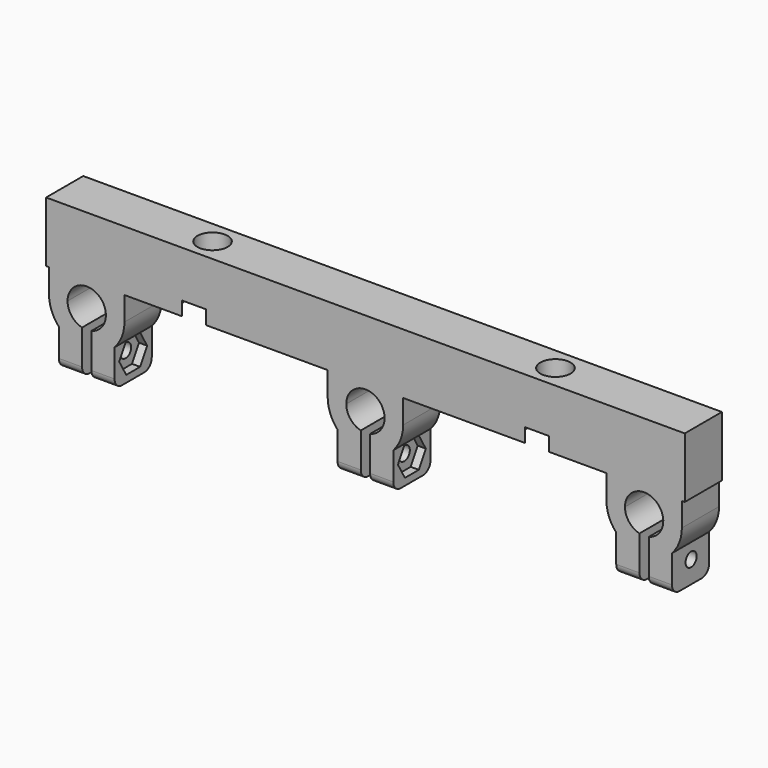
from build123d import *

# Parameters (mm, degrees)
F0_W      = 137.5
F0_H      = 10
F1_DEPTH  = 9
F3_DEPTH  = 10
F5_DEPTH  = 1.75
F7_DEPTH  = 1.75
F9_DEPTH  = 1.75
F10_R     = 1.5
F11_DEPTH = 134.751
F12_R     = 3.25
F13_DEPTH = 31.6046517502
F15_DEPTH = 134.751
F16_R     = 5.625
F16_R_2   = 3.25
F17_DEPTH = 3


with BuildPart() as f1:
    # F0 (on Top) → F1 (new body)
    with BuildSketch(Plane.XY):
        Rectangle(F0_W, F0_H)
    extrude(amount=F1_DEPTH)

    # F2 (on face) → F3 (join, through all)
    with BuildSketch(Plane(origin=(0, 5, 0), x_dir=(-1, 0, 0), z_dir=(0, 1, 0))):
        with BuildLine():
            Line((-61, -22.6036517502), (-61, -17.1882267114))
            ThreePointArc((-61, -17.1882267114), (-63.7309525503, -16.342729426), (-66, -14.6036517502))
            Line((-66, -14.6036517502), (-66, -22.6036517502))
            Line((-66, -22.6036517502), (-61, -22.6036517502))
        make_face()
        with BuildLine():
            Line((-54, -22.6036517502), (-54, -14.6036517502))
            ThreePointArc((-54, -14.6036517502), (-56.2690474497, -16.342729426), (-59, -17.1882267114))
            Line((-59, -17.1882267114), (-59, -22.6036517502))
            Line((-59, -22.6036517502), (-54, -22.6036517502))
        make_face()
        with BuildLine():
            Line((-1, -22.6036517502), (-1, -17.1882267114))
            ThreePointArc((-1, -17.1882267114), (-3.7309525503, -16.342729426), (-6, -14.6036517502))
            Line((-6, -14.6036517502), (-6, -22.6036517502))
            Line((-6, -22.6036517502), (-1, -22.6036517502))
        make_face()
        with BuildLine():
            ThreePointArc((6, -14.6036517502), (3.7309525503, -16.342729426), (1, -17.1882267114))
            Line((1, -17.1882267114), (1, -22.6036517502))
            Line((1, -22.6036517502), (6, -22.6036517502))
            Line((6, -22.6036517502), (6, -14.6036517502))
        make_face()
        with BuildLine():
            ThreePointArc((59, -17.1882267114), (56.2690474497, -16.342729426), (54, -14.6036517502))
            Line((54, -14.6036517502), (54, -22.6036517502))
            Line((54, -22.6036517502), (59, -22.6036517502))
            Line((59, -22.6036517502), (59, -17.1882267114))
        make_face()
        with BuildLine():
            ThreePointArc((66, -14.6036517502), (63.7309525503, -16.342729426), (61, -17.1882267114))
            Line((61, -17.1882267114), (61, -22.6036517502))
            Line((61, -22.6036517502), (66, -22.6036517502))
            Line((66, -22.6036517502), (66, -14.6036517502))
        make_face()
        with BuildLine():
            ThreePointArc((-1, -13.1269526484), (-2.5387620014, -5.8737982991), (4.125, -9.125))
            ThreePointArc((4.125, -9.125), (3.2512017009, -11.6637620014), (1, -13.1269526484))
            Line((1, -13.1269526484), (1, -17.1882267114))
            ThreePointArc((1, -17.1882267114), (3.7309525503, -16.342729426), (6, -14.6036517502))
            ThreePointArc((6, -14.6036517502), (7.5751443881, -12.0631648184), (8.125, -9.125))
            Line((8.125, -9.125), (8.125, -4))
            Line((8.125, -4), (51.875, -4))
            Line((51.875, -4), (51.875, -9.125))
            ThreePointArc((51.875, -9.125), (52.4248556119, -12.0631648184), (54, -14.6036517502))
            ThreePointArc((54, -14.6036517502), (56.2690474497, -16.342729426), (59, -17.1882267114))
            Line((59, -17.1882267114), (59, -13.1269526484))
            ThreePointArc((59, -13.1269526484), (57.4612379986, -5.8737982991), (64.125, -9.125))
            ThreePointArc((64.125, -9.125), (63.2512017009, -11.6637620014), (61, -13.1269526484))
            Line((61, -13.1269526484), (61, -17.1882267114))
            ThreePointArc((61, -17.1882267114), (63.7309525503, -16.342729426), (66, -14.6036517502))
            ThreePointArc((66, -14.6036517502), (67.5751443881, -12.0631648184), (68.125, -9.125))
            Line((68.125, -9.125), (68.125, -4))
            Line((68.125, -4), (68.75, -4))
            Line((68.75, -4), (68.75, 0))
            Line((68.75, 0), (-68.75, 0))
            Line((-68.75, 0), (-68.75, -4))
            Line((-68.75, -4), (-68.125, -4))
            Line((-68.125, -4), (-68.125, -9.125))
            ThreePointArc((-68.125, -9.125), (-67.5751443881, -12.0631648184), (-66, -14.6036517502))
            ThreePointArc((-66, -14.6036517502), (-63.7309525503, -16.342729426), (-61, -17.1882267114))
            Line((-61, -17.1882267114), (-61, -13.1269526484))
            ThreePointArc((-61, -13.1269526484), (-62.5387620014, -5.8737982991), (-55.875, -9.125))
            ThreePointArc((-55.875, -9.125), (-56.7487982991, -11.6637620014), (-59, -13.1269526484))
            Line((-59, -13.1269526484), (-59, -17.1882267114))
            ThreePointArc((-59, -17.1882267114), (-56.2690474497, -16.342729426), (-54, -14.6036517502))
            ThreePointArc((-54, -14.6036517502), (-52.4248556119, -12.0631648184), (-51.875, -9.125))
            Line((-51.875, -9.125), (-51.875, -4))
            Line((-51.875, -4), (-8.125, -4))
            Line((-8.125, -4), (-8.125, -9.125))
            ThreePointArc((-8.125, -9.125), (-7.5751443881, -12.0631648184), (-6, -14.6036517502))
            ThreePointArc((-6, -14.6036517502), (-3.7309525503, -16.342729426), (-1, -17.1882267114))
            Line((-1, -17.1882267114), (-1, -13.1269526484))
        make_face()
    extrude(amount=-F3_DEPTH)

    # F4 (on face) → F5 (cut)
    with BuildSketch(Plane(origin=(54, 0, 0), x_dir=(0, -1, 0), z_dir=(-1, 0, 0))):
        Polygon((3.7527767497, -17.8536517502), (1.8763883749, -14.6036517502), (-1.8763883749, -14.6036517502), (-3.7527767497, -17.8536517502), (-1.8763883749, -21.1036517502), (1.8763883749, -21.1036517502), align=None)
    extrude(amount=-F5_DEPTH, mode=Mode.SUBTRACT)

    # F6 (on face) → F7 (cut)
    with BuildSketch(Plane.YZ.offset(6)):
        Polygon((3.7527767497, -17.8536517502), (1.8763883749, -14.6036517502), (-1.8763883749, -14.6036517502), (-3.7527767497, -17.8536517502), (-1.8763883749, -21.1036517502), (1.8763883749, -21.1036517502), align=None)
    extrude(amount=-F7_DEPTH, mode=Mode.SUBTRACT)

    # F8 (on face) → F9 (cut)
    with BuildSketch(Plane.YZ.offset(-54)):
        Polygon((1.8763883749, -14.6036517502), (-1.8763883749, -14.6036517502), (-3.7527767497, -17.8536517502), (-1.8763883749, -21.1036517502), (1.8763883749, -21.1036517502), (3.7527767497, -17.8536517502), align=None)
    extrude(amount=-F9_DEPTH, mode=Mode.SUBTRACT)

    # F10 (on face) → F11 (cut, through all)
    with BuildSketch(Plane.YZ.offset(66)):
        with Locations((0.1443375673, -17.8536517502)):
            Circle(F10_R)
    extrude(amount=-F11_DEPTH, mode=Mode.SUBTRACT)

    # F12 (on face) → F13 (cut, through all)
    with BuildSketch(Plane.XY.offset(9)):
        with Locations((36.913, 0)):
            Circle(F12_R)
        with Locations((-36.913, 0)):
            Circle(F12_R)
    extrude(amount=-F13_DEPTH, mode=Mode.SUBTRACT)

    # F14 (on face) → F15 (cut, through all)
    with BuildSketch(Plane.YZ.offset(66)):
        with BuildLine():
            ThreePointArc((-3, -22.6036517502), (-4.4142135624, -22.0178653126), (-5, -20.6036517502))
            Line((-5, -20.6036517502), (-5, -22.6036517502))
            Line((-5, -22.6036517502), (-3, -22.6036517502))
        make_face()
        with BuildLine():
            ThreePointArc((5, -20.6036517502), (4.4142135624, -22.0178653126), (3, -22.6036517502))
            Line((3, -22.6036517502), (5, -22.6036517502))
            Line((5, -22.6036517502), (5, -20.6036517502))
        make_face()
    extrude(amount=-F15_DEPTH, mode=Mode.SUBTRACT)

    # F16 (on face) → F17 (cut)
    with BuildSketch(Plane(origin=(0, 0, -4), x_dir=(1, 0, 0), z_dir=(0, 0, -1))):
        with Locations((-36.913, 0)):
            Circle(F16_R)
        with Locations((-36.913, 0)):
            Circle(F16_R_2, mode=Mode.SUBTRACT)
        with Locations((36.913, 0)):
            Circle(F16_R)
        with Locations((36.913, 0)):
            Circle(F16_R_2, mode=Mode.SUBTRACT)
    extrude(amount=-F17_DEPTH, mode=Mode.SUBTRACT)


solid = f1.part
